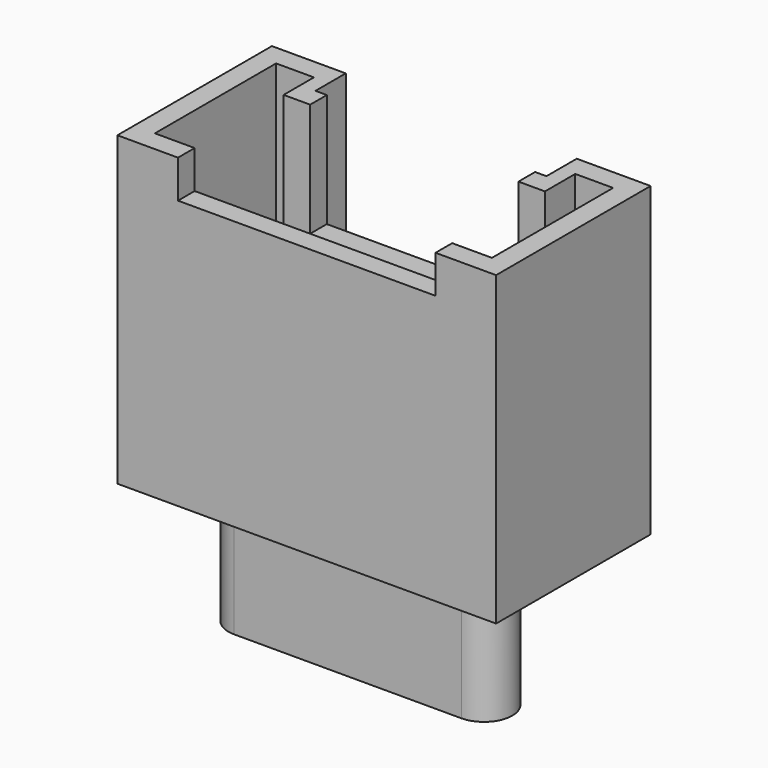
from build123d import *

# Parameters (mm, degrees)
PAD005_DEPTH            = 8.1
POCKET003_DEPTH         = 7
SKETCH010_W             = 6.8
SKETCH010_H             = 5
POCKET004_DEPTH         = 1
SKETCH011_W             = 5.5
SKETCH011_H             = 3
POCKET005_DEPTH         = 3
PAD006_DEPTH            = 4
PAD014_DEPTH            = 3.4
BODY005_PLACEMENT_ANGLE = 180


with BuildPart() as part:
    # Sketch008 → Pad005 (new body)
    with BuildSketch(Plane.XY):
        Polygon((-5, 0), (-3.05, 0), (-3.05, 1), (3.05, 1), (3.05, 0), (5, 0), (5, 5.1), (-5, 5.1), align=None)
    extrude(amount=PAD005_DEPTH)

    # Sketch009 (on Face10 of Pad005) → Pocket003 (cut)
    with BuildSketch(Plane.XY.offset(8.1)):
        Polygon((-4.45, 0.55), (-3.45, 0.55), (-3.45, 1.55), (3.45, 1.55), (3.45, 0.55), (4.45, 0.55), (4.45, 4.55), (-4.45, 4.55), align=None)
    extrude(amount=-POCKET003_DEPTH, mode=Mode.SUBTRACT)

    # Sketch010 (on Face5 of Pocket003) → Pocket004 (cut)
    with BuildSketch(Plane.XY.offset(8.1)):
        with Locations((0, 5.5)):
            Rectangle(SKETCH010_W, SKETCH010_H)
    extrude(amount=-POCKET004_DEPTH, mode=Mode.SUBTRACT)

    # Sketch011 (on Face5 of Pocket004) → Pocket005 (cut)
    with BuildSketch(Plane.XY.offset(8.1)):
        with Locations((0, 1.5)):
            Rectangle(SKETCH011_W, SKETCH011_H)
    extrude(amount=-POCKET005_DEPTH, mode=Mode.SUBTRACT)

    # Sketch012 (on Face26 of Pocket005) → Pad006 (join)
    with BuildSketch(Plane.XY.offset(1.1)):
        with BuildLine():
            ThreePointArc((-3.4, 3.25), (-3.65, 3), (-3.4, 2.75))
            Line((-3.4, 2.75), (3.4, 2.75))
            ThreePointArc((3.4, 2.75), (3.65, 3), (3.4, 3.25))
            Line((-3.4, 3.25), (3.4, 3.25))
        make_face()
    extrude(amount=PAD006_DEPTH)

    # Sketch020 (on Face4 of Pad006) → Pad014 (join)
    with BuildSketch(Plane(origin=(0, 0, 0), x_dir=(1, 0, 0), z_dir=(0, 0, -1))):
        with BuildLine():
            ThreePointArc((-3, -2.25), (-3.75, -3), (-3, -3.75))
            Line((-3, -3.75), (3, -3.75))
            ThreePointArc((3, -3.75), (3.75, -3), (3, -2.25))
            Line((-3, -2.25), (3, -2.25))
        make_face()
    extrude(amount=PAD014_DEPTH)


with BuildPart() as part_1:
    # Body005 placement: moved
    add(part.part.moved(Location((-7, 29, 0))).rotate(Axis((-7, 29, 0), (0, 0, 1)), BODY005_PLACEMENT_ANGLE))


with BuildPart() as part_2:
    # Body012 placement: moved
    add(part_1.part.moved(Location((14, 26, 0))))


solid = part_2.part
